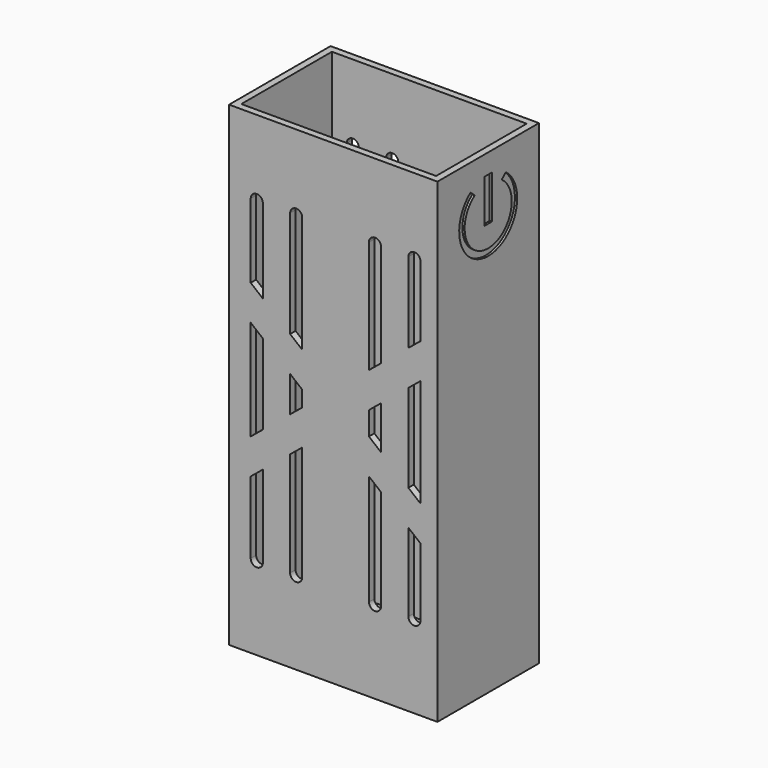
from build123d import *

# Parameters (mm, degrees)
F0_W      = 92
F0_H      = 56
F0_W_2    = 86
F0_H_2    = 50
F1_DEPTH  = 210
F2_W      = 86
F2_H      = 50
F3_DEPTH  = 2
F4_W      = 26
F4_H      = 18
F5_DEPTH  = 25
F7_START  = -65.3
F7_DEPTH  = 72.4
F8_SIZE   = 1
F10_DEPTH = 56.001
F12_DEPTH = 3
F13_START = -53
F13_DEPTH = 3
F14_W     = 4
F14_H     = 19.115075469
F15_DEPTH = 1


with BuildPart() as f1:
    # F0 (on Top) → F1 (new body)
    with BuildSketch(Plane.XY):
        with Locations((7.8588197877, 5.9614046181)):
            Rectangle(F0_W, F0_H)
        with Locations((7.8588197877, 5.9614046181)):
            Rectangle(F0_W_2, F0_H_2, mode=Mode.SUBTRACT)
    extrude(amount=F1_DEPTH)

    # F2 (on Top) → F3 (join)
    with BuildSketch(Plane.XY):
        with Locations((7.8588197877, 5.9614046181)):
            Rectangle(F2_W, F2_H)
    extrude(amount=F3_DEPTH)

    # F4 (on face) → F5 (cut)
    with BuildSketch(Plane.XY.offset(2)):
        with Locations((7.8588197877, 5.9614046181)):
            Rectangle(F4_W, F4_H)
    extrude(amount=-F5_DEPTH, mode=Mode.SUBTRACT)

    # F6 (on face) → F7 (join)
    with BuildSketch(Plane(origin=(0, 0, 0), x_dir=(1, 0, 0), z_dir=(0, 0, -1)).offset(F7_START)):
        Polygon((12.8588197877, -33.9614046181), (5.8588197877, -33.9614046181), (3.3588197877, -36.4614046181), (15.3588197877, -36.4614046181), align=None)
    extrude(amount=-F7_DEPTH)

    # F8
    f8_edges = [f1.edges().sort_by_distance(p)[0] for p in [
        (15.35882, 36.461405, 101.5),
        (3.35882, 36.461405, 101.5),
    ]]
    chamfer(f8_edges, length=F8_SIZE)

    # F9 (on face) → F10 (cut, through all)
    with BuildSketch(Plane(origin=(0, 33.9614046181, 0), x_dir=(-1, 0, 0), z_dir=(0, 1, 0))):
        with BuildLine():
            Line((-23.6102305163, 36.7792584002), (-23.6102305163, 176.6065955162))
            ThreePointArc((-23.6102305163, 176.6065955162), (-26.284525152, 179.2808901519), (-28.9588197877, 176.6065955162))
            Line((-28.9588197877, 176.6065955162), (-28.9588197877, 36.7792584002))
            ThreePointArc((-28.9588197877, 36.7792584002), (-26.284525152, 34.1049637645), (-23.6102305163, 36.7792584002))
        make_face()
        with BuildLine():
            Line((11.1897694837, 36.7792584002), (11.1897694837, 176.6065955162))
            ThreePointArc((11.1897694837, 176.6065955162), (8.515474848, 179.2808901519), (5.8411802123, 176.6065955162))
            Line((5.8411802123, 176.6065955162), (5.8411802123, 36.7792584002))
            ThreePointArc((5.8411802123, 36.7792584002), (8.515474848, 34.1049637645), (11.1897694837, 36.7792584002))
        make_face()
        with BuildLine():
            Line((28.5897694837, 36.7792584002), (28.5897694837, 176.6065955162))
            ThreePointArc((28.5897694837, 176.6065955162), (25.915474848, 179.2808901519), (23.2411802123, 176.6065955162))
            Line((23.2411802123, 176.6065955162), (23.2411802123, 36.7792584002))
            ThreePointArc((23.2411802123, 36.7792584002), (25.915474848, 34.1049637645), (28.5897694837, 36.7792584002))
        make_face()
        with BuildLine():
            ThreePointArc((-41.0102305163, 176.6065955162), (-43.684525152, 179.2808901519), (-46.3588197877, 176.6065955162))
            Line((-46.3588197877, 176.6065955162), (-46.3588197877, 36.7792584002))
            ThreePointArc((-46.3588197877, 36.7792584002), (-43.684525152, 34.1049637645), (-41.0102305163, 36.7792584002))
            Line((-41.0102305163, 36.7792584002), (-41.0102305163, 176.6065955162))
        make_face()
    extrude(amount=-F10_DEPTH, mode=Mode.SUBTRACT)

    # F11 (on face) → F12 (join)
    with BuildSketch(Plane.XZ.offset(22.0385953819)):
        Polygon((-38.1411802123, 151.7051618288), (-38.1411802123, 136.1901685596), (-1.6069489009, 106.2492112246), (7.8588197877, 114.0067078593), align=None)
        Polygon((7.8588197877, 114.0067078593), (-1.6069489009, 106.2492112246), (7.8588197877, 98.49171459), (17.3245884762, 106.2492112246), align=None)
        Polygon((7.8588197877, 98.49171459), (-1.6069489009, 106.2492112246), (-38.1411802123, 76.3082538897), (-38.1411802123, 60.7932606204), align=None)
        Polygon((17.3245884762, 106.2492112246), (7.8588197877, 98.49171459), (53.8588197877, 60.7932606204), (53.8588197877, 76.3082538897), align=None)
        Polygon((53.8588197877, 151.7051618288), (7.8588197877, 114.0067078593), (17.3245884762, 106.2492112246), (53.8588197877, 136.1901685596), align=None)
    extrude(amount=-F12_DEPTH)

    # F11 (on face) → F13 (join)
    with BuildSketch(Plane.XZ.offset(22.0385953819).offset(F13_START)):
        Polygon((-38.1411802123, 151.7051618288), (-38.1411802123, 136.1901685596), (-1.6069489009, 106.2492112246), (7.8588197877, 114.0067078593), align=None)
        Polygon((7.8588197877, 114.0067078593), (-1.6069489009, 106.2492112246), (7.8588197877, 98.49171459), (17.3245884762, 106.2492112246), align=None)
        Polygon((7.8588197877, 98.49171459), (-1.6069489009, 106.2492112246), (-38.1411802123, 76.3082538897), (-38.1411802123, 60.7932606204), align=None)
        Polygon((17.3245884762, 106.2492112246), (7.8588197877, 98.49171459), (53.8588197877, 60.7932606204), (53.8588197877, 76.3082538897), align=None)
        Polygon((53.8588197877, 151.7051618288), (7.8588197877, 114.0067078593), (17.3245884762, 106.2492112246), (53.8588197877, 136.1901685596), align=None)
    extrude(amount=-F13_DEPTH)

    # F14 (on face) → F15 (cut)
    with BuildSketch(Plane.YZ.offset(53.8588197877)):
        with BuildLine():
            Line((-1.4880481935, 196.3340106044), (-3.7893929464, 198.3656088747))
            ThreePointArc((-3.7893929464, 198.3656088747), (5.9614046181, 169.6801074319), (15.7122021826, 198.3656088747))
            Line((15.7122021826, 198.3656088747), (13.4108574297, 196.3340106044))
            ThreePointArc((13.4108574297, 196.3340106044), (5.9614046181, 172.6801074319), (-1.4880481935, 196.3340106044))
        make_face()
        with Locations((6.0325704031, 191.79122895)):
            Rectangle(F14_W, F14_H)
    extrude(amount=-F15_DEPTH, mode=Mode.SUBTRACT)


solid = f1.part
